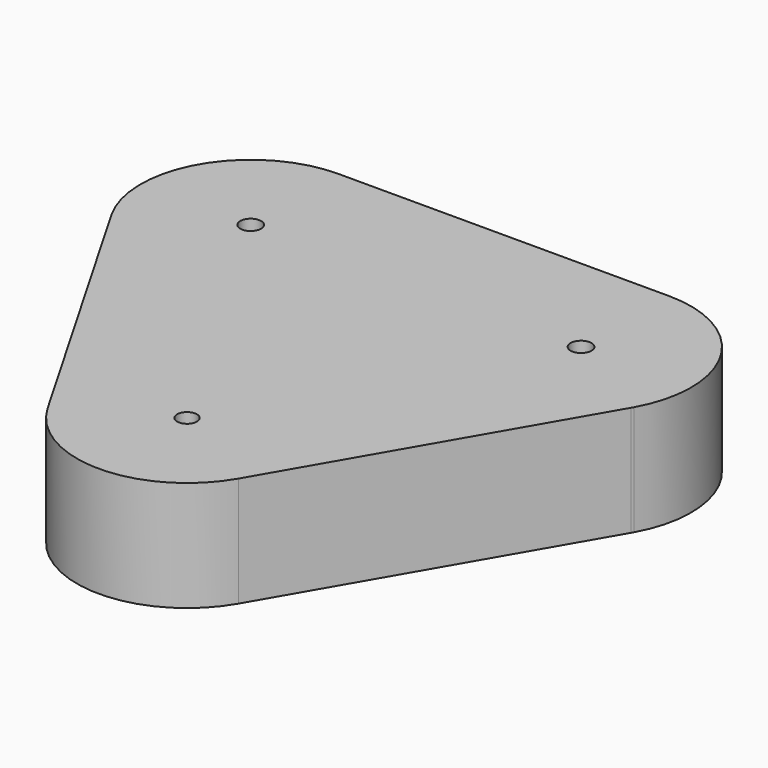
from build123d import *

# Parameters (mm, degrees)
F0_R     = 0.9
F0_R_2   = 0.95
F1_DEPTH = 10


with BuildPart() as f1:
    # F0 (on Top) → F1 (new body)
    with BuildSketch(Plane.XY):
        with BuildLine():
            Line((30, 49.352225), (0, 49.352225))
            ThreePointArc((0, 49.352225), (-8.638788, 44.389222), (-8.70271, 34.426492))
            Line((-8.70271, 34.426492), (-8.617288, 34.278533))
            Line((-8.617288, 34.278533), (6.339685, 8.371568))
            ThreePointArc((6.339685, 8.371568), (15.000059, 3.371463), (23.660374, 8.37167))
            Line((23.660374, 8.37167), (38.599774, 34.248904))
            Line((38.599774, 34.248904), (38.719727, 34.45668))
            ThreePointArc((38.719727, 34.45668), (38.630048, 44.404182), (30, 49.352225))
        make_face()
        with Locations((15, 13.371463)):
            Circle(F0_R, mode=Mode.SUBTRACT)
        with Locations((0, 39.352225)):
            Circle(F0_R_2, mode=Mode.SUBTRACT)
        with Locations((30, 39.352225)):
            Circle(F0_R_2, mode=Mode.SUBTRACT)
        with BuildLine():
            Line((-8.617288, 34.278533), (-8.70271, 34.426492))
            ThreePointArc((-8.70271, 34.426492), (-8.660315, 34.35233), (-8.617288, 34.278533))
        make_face()
        with BuildLine():
            ThreePointArc((38.599774, 34.248904), (38.660374, 34.352432), (38.719727, 34.45668))
            Line((38.719727, 34.45668), (38.599774, 34.248904))
        make_face()
    extrude(amount=F1_DEPTH)


solid = f1.part
